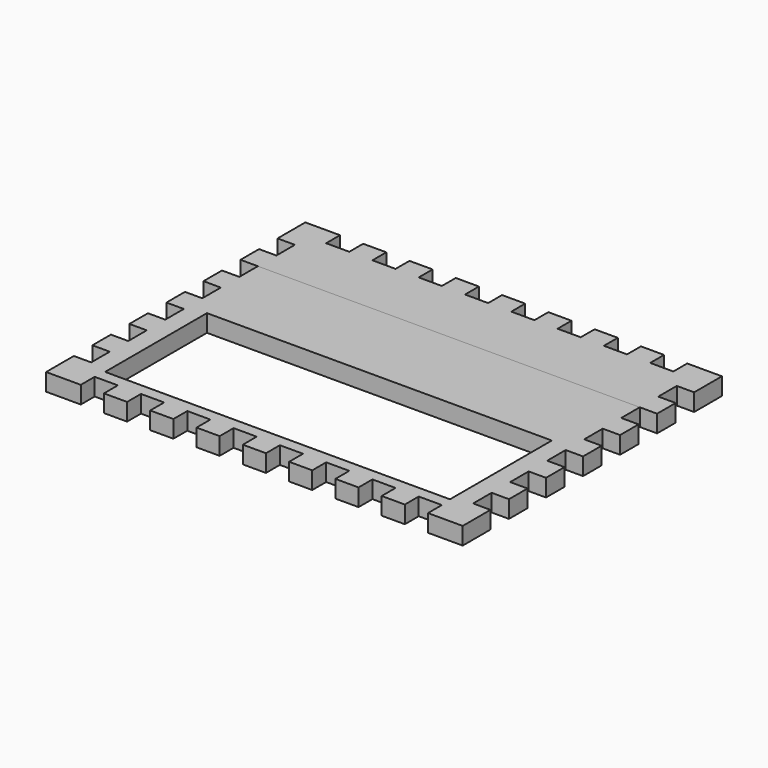
from build123d import *

# Parameters (mm, degrees)
F1_DEPTH = 9.525
F0_W     = 189.23
F0_H     = 69.85
F2_DEPTH = 9.525


with BuildPart() as f1:
    # F0 (on Top) → F1 (new body)
    with BuildSketch(Plane.XY):
        Polygon((19.05, 0), (0, 0), (0, -19.05), (9.525, -19.05), (9.525, -31.75), (0, -31.75), (0, -44.45), (9.525, -44.45), (219.075, -44.45), (228.6, -44.45), (228.6, -31.75), (219.075, -31.75), (219.075, -19.05), (228.6, -19.05), (228.6, 0), (209.55, 0), (209.55, -9.525), (196.85, -9.525), (196.85, 0), (184.15, 0), (184.15, -9.525), (171.45, -9.525), (171.45, 0), (158.75, 0), (158.75, -9.525), (146.05, -9.525), (146.05, 0), (133.35, 0), (133.35, -9.525), (120.65, -9.525), (120.65, 0), (107.95, 0), (107.95, -9.525), (95.25, -9.525), (95.25, 0), (82.55, 0), (82.55, -9.525), (69.85, -9.525), (69.85, 0), (57.15, 0), (57.15, -9.525), (44.45, -9.525), (44.45, 0), (31.75, 0), (31.75, -9.525), (19.05, -9.525), align=None)
    extrude(amount=F1_DEPTH)


with BuildPart() as f2:
    # F0 (on Top) → F2 (new body)
    with BuildSketch(Plane.XY):
        Polygon((219.075, -44.45), (9.525, -44.45), (9.525, -57.15), (0, -57.15), (0, -69.85), (9.525, -69.85), (9.525, -82.55), (0, -82.55), (0, -95.25), (9.525, -95.25), (9.525, -107.95), (0, -107.95), (0, -120.65), (9.525, -120.65), (9.525, -133.35), (0, -133.35), (0, -146.05), (9.525, -146.05), (9.525, -158.75), (0, -158.75), (0, -177.8), (19.05, -177.8), (19.05, -168.275), (31.75, -168.275), (31.75, -177.8), (44.45, -177.8), (44.45, -168.275), (57.15, -168.275), (57.15, -177.8), (69.85, -177.8), (69.85, -168.275), (82.55, -168.275), (82.55, -177.8), (95.25, -177.8), (95.25, -168.275), (107.95, -168.275), (107.95, -177.8), (120.65, -177.8), (120.65, -168.275), (133.35, -168.275), (133.35, -177.8), (146.05, -177.8), (146.05, -168.275), (158.75, -168.275), (158.75, -177.8), (171.45, -177.8), (171.45, -168.275), (184.15, -168.275), (184.15, -177.8), (196.85, -177.8), (196.85, -168.275), (209.55, -168.275), (209.55, -177.8), (228.6, -177.8), (228.6, -158.75), (219.075, -158.75), (219.075, -146.05), (228.6, -146.05), (228.6, -133.35), (219.075, -133.35), (219.075, -120.65), (228.6, -120.65), (228.6, -107.95), (219.075, -107.95), (219.075, -95.25), (228.6, -95.25), (228.6, -82.55), (219.075, -82.55), (219.075, -69.85), (228.6, -69.85), (228.6, -57.15), (219.075, -57.15), align=None)
        with Locations((114.3, -127)):
            Rectangle(F0_W, F0_H, mode=Mode.SUBTRACT)
    extrude(amount=F2_DEPTH)


solid = Compound([f1.part, f2.part])
